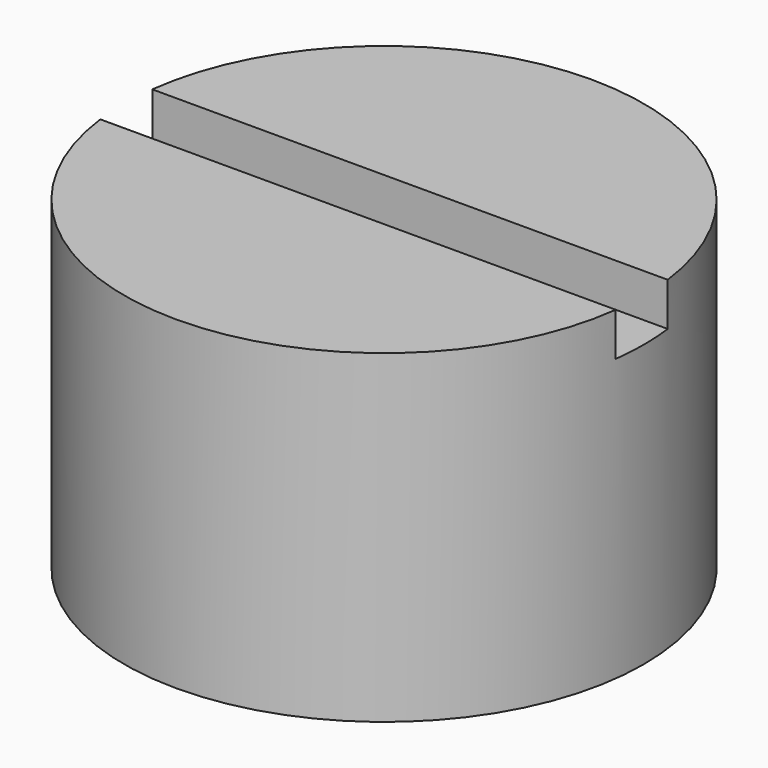
from build123d import *

# Parameters (mm, degrees)
BOX023_W          = 2.4
BOX023_H          = 0.3
BOX023_DEPTH      = 0.3
CYLINDER002_R     = 1.2
CYLINDER002_DEPTH = 1.5


with BuildPart() as kub023:
    # Box023 → Box023 (new body)
    with BuildSketch(Plane(origin=(-1.2, -0.15, 2.3), x_dir=(1, 0, 0), z_dir=(0, 0, 1))):
        with Locations((1.2, 0.15)):
            Rectangle(BOX023_W, BOX023_H)
    extrude(amount=BOX023_DEPTH)


with BuildPart() as cut016:
    # Cylinder002 → Cylinder002 (new body)
    with BuildSketch(Plane.XY.offset(1)):
        Circle(CYLINDER002_R)
    extrude(amount=CYLINDER002_DEPTH)

    # Cut016: cut Kub023
    add(kub023.part, mode=Mode.SUBTRACT)


solid = cut016.part
